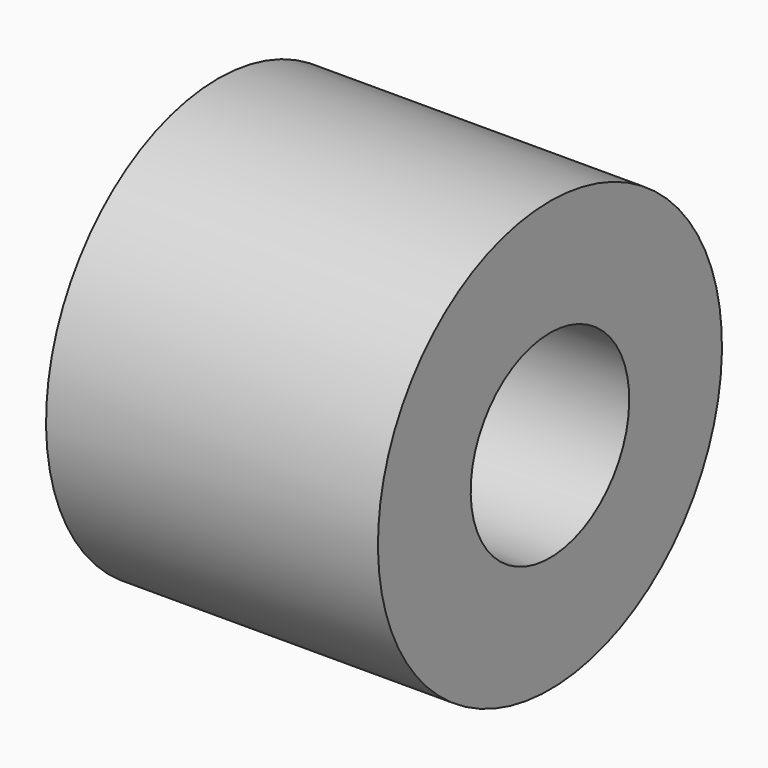
from build123d import *

# Parameters (mm, degrees)
F0_W     = 128.7522614002
F0_H     = 54.0340840816
F0_H_2   = 12.6753002405
F0_W_2   = 26.4205783606
F1_DEPTH = 25.4
F2_W     = 289.0483140945
F2_H     = 100.947111845


with BuildPart() as f1:
    # F0 (on Top) → F1 (new body)
    with BuildSketch(Plane.XY):
        Polygon((-11.7429941893, -54.0340840816), (-11.7429941893, 0), (117.009267211, 0), (117.009267211, 39.4332259893), (-52.1731898189, 39.4332259893), (-52.1731898189, -66.7093843222), (-38.1635725498, -66.7093843222), (-38.1635725498, -54.0340840816), align=None)
        with Locations((52.6331365108, -27.0170420408)):
            Rectangle(F0_W, F0_H)
        with Locations((52.6331365108, -60.3717342019)):
            Rectangle(F0_W, F0_H_2)
        with Locations((-24.9532833695, -60.3717342019)):
            Rectangle(F0_W_2, F0_H_2)
        Polygon((196.6224908829, -54.0340840816), (117.009267211, -54.0340840816), (117.009267211, -66.7093843222), (117.009267211, -99.0975797176), (-11.7429941893, -99.0975797176), (-11.7429941893, -66.7093843222), (-38.1635725498, -66.7093843222), (-38.1635725498, -138.3370757103), (196.6224908829, -138.3370757103), align=None)
    extrude(amount=F1_DEPTH)

    # F2 (on Front) → F3 (revolve)
    with BuildSketch(Plane.XZ):
        with Locations((94.3589806557, 136.7611438036)):
            Rectangle(F2_W, F2_H)
    revolve(axis=Axis((344.5996642113, 0, 0), (-1, 0, 0)))


solid = f1.part
